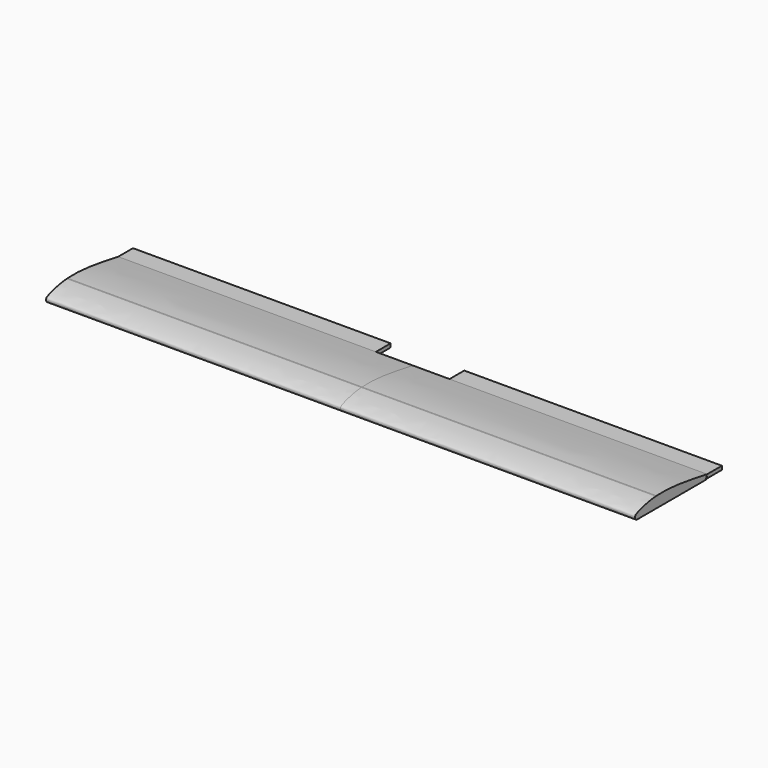
from build123d import *

# Parameters (mm, degrees)
F1_DEPTH = 508
F0_W     = 31.75
F0_H     = 6.3388977465
F2_W     = 63.5
F2_H     = 31.75
F3_DEPTH = 25.4


with BuildPart() as f1:
    # F0 (on Right) → F1 (new body, symmetric)
    with BuildSketch(Plane.YZ):
        with BuildLine():
            ThreePointArc((-44.4879352432, 18.9311316663), (-49.1699479381, 2.2788246017), (-33.4628312215, 9.525))
            ThreePointArc((-33.4628312215, 9.525), (-36.1996561906, 16.2067890381), (-42.8373834, 19.0488117607))
            add(Edge.make_bspline(
                [(-44.4879352432, 18.9311316663), (-43.9401874866, 18.9731910158), (-43.3899908024, 19.0124014485), (-42.8373834, 19.0488117607)],
                knots=[0.5422731504, 0.5422731504, 0.5422731504, 0.5422731504, 0.5502746607, 0.5502746607, 0.5502746607, 0.5502746607], degree=3))
        make_face()
        with BuildLine():
            ThreePointArc((-42.8373834, 19.0488117607), (-36.1996561906, 16.2067890381), (-33.4628312215, 9.525))
            ThreePointArc((-33.4628312215, 9.525), (-49.1699479381, 2.2788246017), (-44.4879352432, 18.9311316663))
            add(Edge.make_bspline(
                [(-85.9970868468, -0.0121559101), (-87.2158983385, 0.6702064837), (-89.2540308696, 2.2125858999), (-89.4153664417, 7.0990394112), (-85.2236422204, 10.8278266918), (-63.8514588483, 17.4442844884), (-44.4879352432, 18.9311316663)],
                knots=[0, 0, 0, 0, 0.0844909669, 0.1714602687, 0.2594104084, 0.5422731504, 0.5422731504, 0.5422731504, 0.5422731504], degree=3))
            Line((-85.9970868468, -0.0121559101), (63.5396777009, -0.0121559101))
            Line((63.5396777009, -0.0121559101), (66.4029131532, 7.3152))
            add(Edge.make_bspline(
                [(-42.8373834, 19.0488117607), (-11.7780528266, 21.095255433), (26.8967571851, 14.2960946371), (66.4029131532, 7.3152)],
                knots=[0.5502746607, 0.5502746607, 0.5502746607, 0.5502746607, 1, 1, 1, 1], degree=3))
        make_face()
        with BuildLine():
            add(Edge.make_bspline(
                [(-44.4879352432, 18.9311316663), (-43.9401874866, 18.9731910158), (-43.3899908024, 19.0124014485), (-42.8373834, 19.0488117607)],
                knots=[0.5422731504, 0.5422731504, 0.5422731504, 0.5422731504, 0.5502746607, 0.5502746607, 0.5502746607, 0.5502746607], degree=3))
            ThreePointArc((-42.8373834, 19.0488117607), (-43.6652196742, 19.0258825845), (-44.4879352432, 18.9311316663))
        make_face()
    extrude(amount=F1_DEPTH, both=True)


with BuildPart() as f1b:
    # F0 (on Right) → F1, piece 2 (new body, symmetric)
    with BuildSketch(Plane.YZ):
        with Locations((82.2779131532, 4.1457511268)):
            Rectangle(F0_W, F0_H)
    extrude(amount=F1_DEPTH, both=True)

    # F2 (on face) → F3 (cut)
    with BuildSketch(Plane.XY.offset(7.3152)):
        with Locations((-31.75, 82.2779131532)):
            Rectangle(F2_W, F2_H)
        with Locations((31.75, 82.2779131532)):
            Rectangle(F2_W, F2_H)
    extrude(amount=-F3_DEPTH, mode=Mode.SUBTRACT)


solid = Compound([f1.part, f1b.part])
